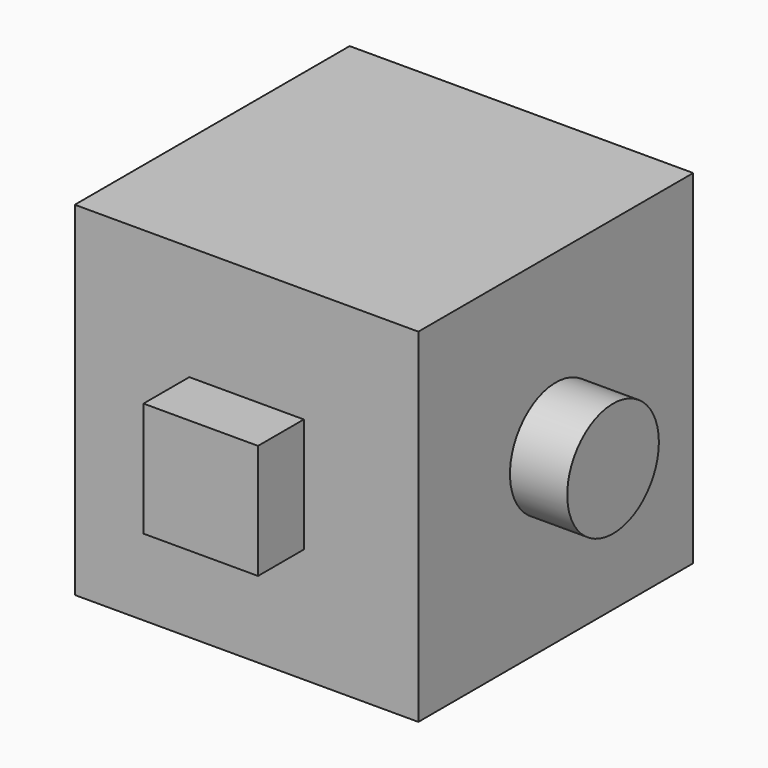
from build123d import *

# Parameters (mm, degrees)
F0_W     = 76.2
F0_H     = 76.2
F1_DEPTH = 76.2
F2_W     = 25.4
F2_H     = 25.4
F3_DEPTH = 12.7
F4_R     = 12.7
F5_DEPTH = 12.7


with BuildPart() as f1:
    # F0 (on Front) → F1 (new body)
    with BuildSketch(Plane.XZ):
        with Locations((-106.368412, 81.328362)):
            Rectangle(F0_W, F0_H)
    extrude(amount=F1_DEPTH)

    # F2 (on face) → F3 (join)
    with BuildSketch(Plane.XZ.offset(76.2)):
        with Locations((-106.368412, 81.328362)):
            Rectangle(F2_W, F2_H)
    extrude(amount=F3_DEPTH)

    # F4 (on face) → F5 (join)
    with BuildSketch(Plane.YZ.offset(-68.268412)):
        with Locations((-38.1, 81.328362)):
            Circle(F4_R)
    extrude(amount=F5_DEPTH)


solid = f1.part
